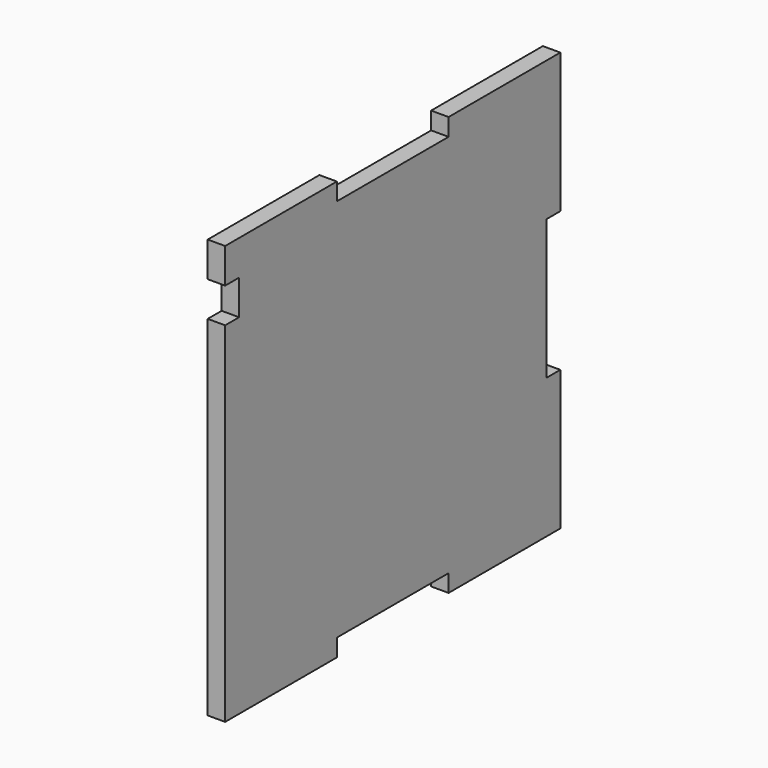
from build123d import *

# Parameters (mm, degrees)
F1_DEPTH = 3.175


with BuildPart() as f1:
    # F0 (on Right) → F1 (new body)
    with BuildSketch(Plane.YZ):
        Polygon((12.7, -38.1), (38.1, -38.1), (38.1, -12.7), (34.925, -12.7), (34.925, 12.7), (38.1, 12.7), (38.1, 38.1), (12.7, 38.1), (12.7, 34.925), (-12.7, 34.925), (-12.7, 38.1), (-38.1, 38.1), (-38.1, 31.75), (-34.925, 31.75), (-34.925, 25.4), (-38.1, 25.4), (-38.1, -38.1), (-12.7, -38.1), (-12.7, -34.925), (12.7, -34.925), align=None)
    extrude(amount=F1_DEPTH)


solid = f1.part
